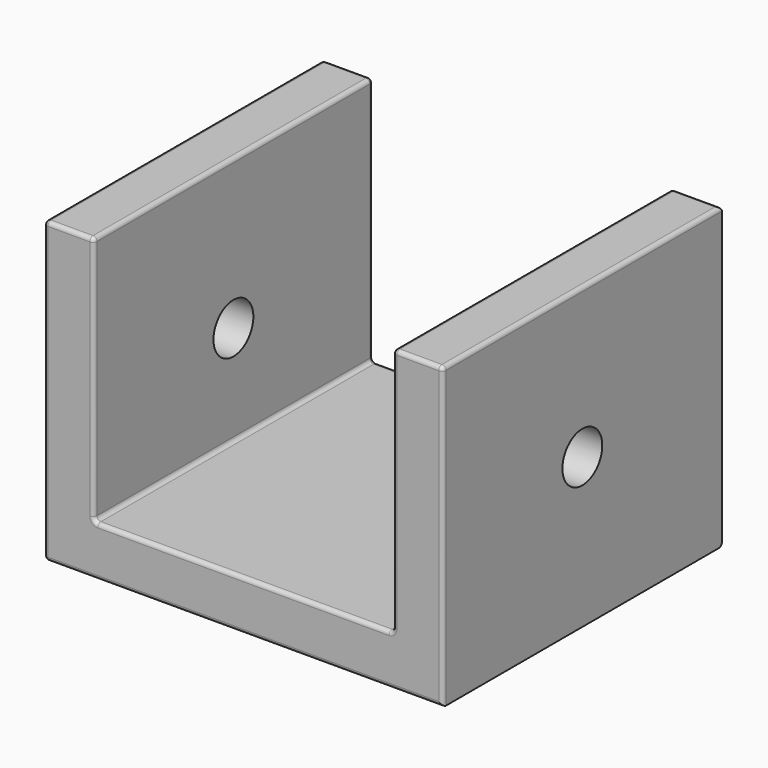
from build123d import *

# Parameters (mm, degrees)
F1_DEPTH = 44.45
F3_D     = 6.35
F4_R     = 0.508


with BuildPart() as f1:
    # F0 (on Front) → F1 (new body)
    with BuildSketch(Plane.XZ):
        Polygon((19.05, 0), (0, 0), (-19.05, 0), (-19.05, 31.75), (-25.4, 31.75), (-25.4, -6.35), (25.4, -6.35), (25.4, 31.75), (19.05, 31.75), align=None)
    extrude(amount=F1_DEPTH)

    # F3 (through all)
    with Locations(Plane.YZ.offset(25.4)):
        with Locations((-22.225, 12.7)):
            Hole(F3_D / 2)

    # F4
    f4_edges = [f1.edges().sort_by_distance(p)[0] for p in [
        (-19.05, -22.225, 31.75),
        (19.05, -22.225, 31.75),
        (25.4, -22.225, 31.75),
        (22.225, -44.45, 31.75),
        (22.225, 0, 31.75),
        (25.4, -44.45, 12.7),
        (19.05, -44.45, 15.875),
        (0, -44.45, 0),
        (19.05, -22.225, 0),
        (-19.05, -22.225, 0),
        (0, 0, 0),
        (-19.05, -44.45, 15.875),
        (-19.05, 0, 15.875),
        (-25.4, -22.225, 31.75),
        (-22.225, 0, 31.75),
        (-22.225, -44.45, 31.75),
        (-25.4, -44.45, 12.7),
        (0, -44.45, -6.35),
        (0, 0, -6.35),
        (-25.4, 0, 12.7),
        (19.05, 0, 15.875),
        (-25.4, -22.225, -6.35),
    ]]
    fillet(f4_edges, radius=F4_R)


solid = f1.part
